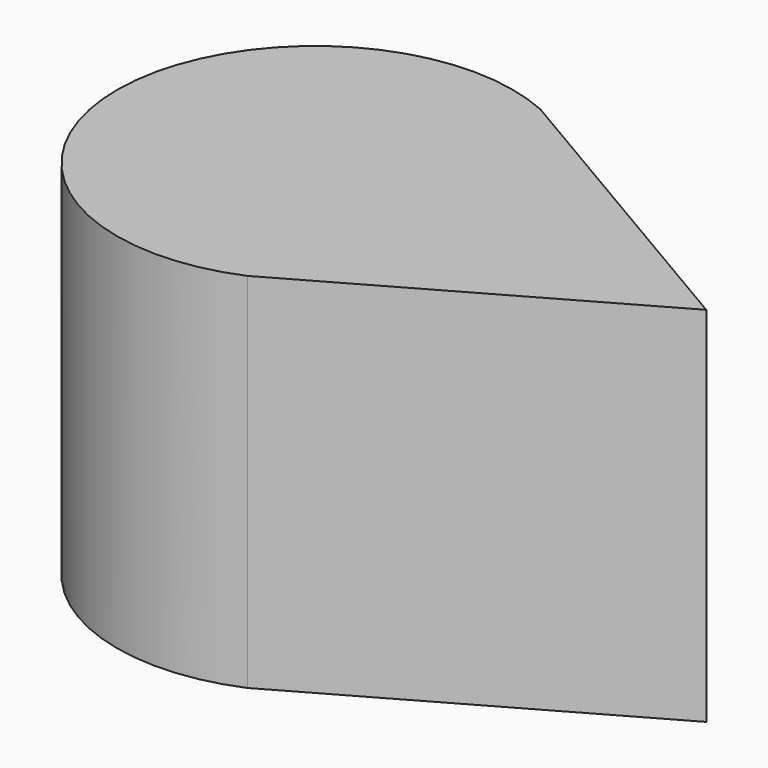
from build123d import *

# Parameters (mm, degrees)
F1_DEPTH = 12.7


with BuildPart() as f1:
    # F0 (on Top) → F1 (new body)
    with BuildSketch(Plane.XY):
        with BuildLine():
            ThreePointArc((-3.617333, 6.377949), (-13.381208, 0.102697), (-3.714799, -6.321677))
            Line((-3.714799, -6.321677), (-3.617333, 6.377949))
        make_face()
        Polygon((-3.617333, 6.377949), (-3.714799, -6.321677), (7.332132, -0.056272), (-2.297786, 5.602545), align=None)
    extrude(amount=F1_DEPTH)


solid = f1.part
